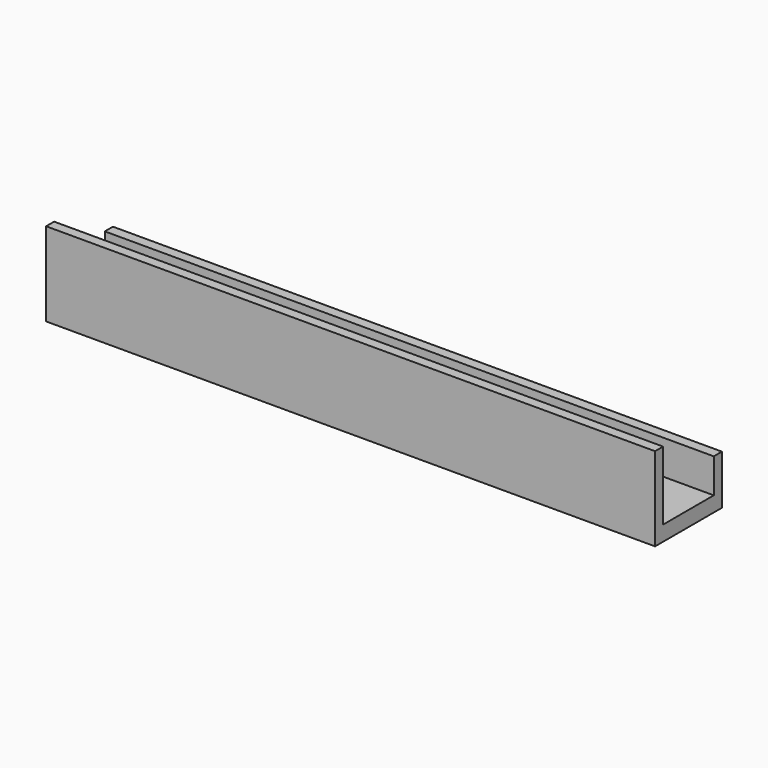
from build123d import *

# Parameters (mm, degrees)
F0_W     = 67.564
F0_H     = 9.271
F1_DEPTH = 1.6764
F2_W     = 67.564
F2_H     = 1.11254
F3_DEPTH = 7.62
F2_H_2   = 1.128524
F4_DEPTH = 3.81
F5_R     = 0.638652
F5_R_2   = 0.640447
F5_R_3   = 0.63486
F5_R_4   = 0.631082
F6_DEPTH = 25.4


with BuildPart() as f1:
    # F0 (on Top) → F1 (new body)
    with BuildSketch(Plane.XY):
        with Locations((0.127, 0)):
            Rectangle(F0_W, F0_H)
    extrude(amount=F1_DEPTH)

    # F2 (on face) → F3 (join)
    with BuildSketch(Plane.XY.offset(1.6764)):
        with Locations((0.127, -4.07923)):
            Rectangle(F2_W, F2_H)
    extrude(amount=F3_DEPTH)

    # F2 (on face) → F4 (join)
    with BuildSketch(Plane.XY.offset(1.6764)):
        with Locations((0.127, 4.071238)):
            Rectangle(F2_W, F2_H_2)
    extrude(amount=F4_DEPTH)

    # F5 (on face) → F6 (cut)
    with BuildSketch(Plane(origin=(0, 0, 0), x_dir=(1, 0, 0), z_dir=(0, 0, -1))):
        with Locations((25.892904, 2.352488)):
            Circle(F5_R)
        with Locations((25.892904, -1.9222)):
            Circle(F5_R_2)
        with Locations((18.270466, 2.352488)):
            Circle(F5_R_3)
        with Locations((18.270466, -1.9222)):
            Circle(F5_R_4)
    extrude(amount=-F6_DEPTH, mode=Mode.SUBTRACT)


solid = f1.part
